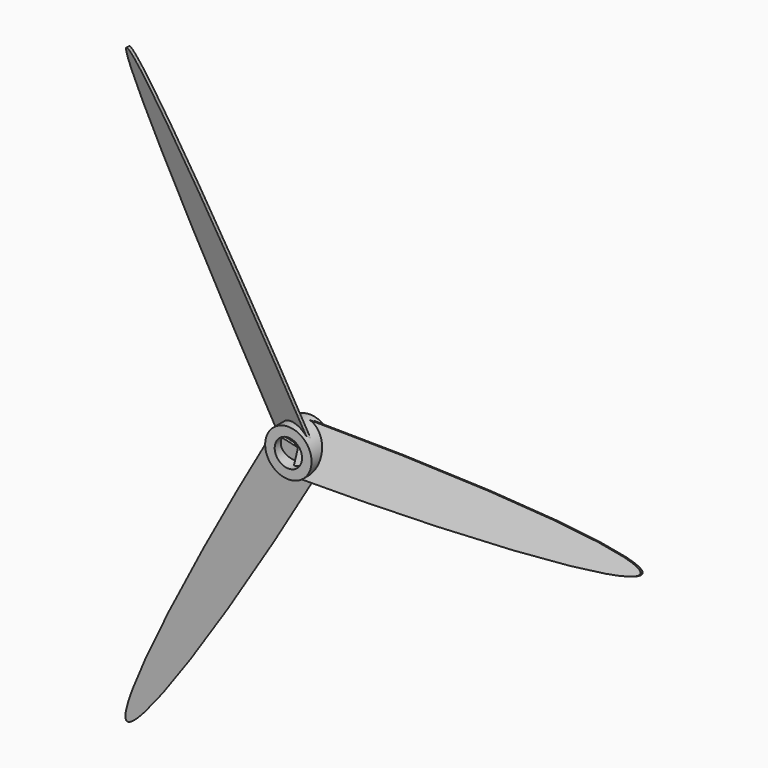
from build123d import *

# Parameters (mm, degrees)
F4_DEPTH = 0.5
F6_COUNT = 3
F0_R     = 8.63289
F0_R_2   = 5.093622
F7_DEPTH = 5


with BuildPart() as f4:
    # F3 (on face) → F4 (new body, symmetric)
    with BuildSketch(Plane(origin=(0, 0, 0), x_dir=(-1, 0, 0), z_dir=(0, 0.939693, -0.34202))):
        with BuildLine():
            add(Edge.make_bspline(
                [(0, 8.774566), (-127.471052, 8.774566), (-127.471052, 0)],
                knots=[4.712389, 4.712389, 4.712389, 6.283185, 6.283185, 6.283185], degree=2, weights=[1, 0.707107, 1]))
            add(Edge.make_bspline(
                [(-127.471052, 0), (-127.471052, -8.774566), (0, -8.774566)],
                knots=[0, 0, 0, 1.570796, 1.570796, 1.570796], degree=2, weights=[1, 0.707107, 1]))
            Line((0, -8.774566), (0, 8.774566))
        make_face()
    extrude(amount=F4_DEPTH, both=True)


with BuildPart() as f6_1:
    # F6: instance of F4
    add(f4.part.rotate(Axis((0, 0.736412, 0), (0, -1, 0)), 1 * 360 / F6_COUNT))


with BuildPart() as f6_2:
    # F6: instance of F4
    add(f4.part.rotate(Axis((0, 0.736412, 0), (0, -1, 0)), 2 * 360 / F6_COUNT))


with BuildPart() as f7:
    # F0 (on Front) → F7 (new body, symmetric)
    with BuildSketch(Plane.XZ):
        Circle(F0_R)
        Circle(F0_R_2, mode=Mode.SUBTRACT)
    extrude(amount=F7_DEPTH, both=True)


solid = Compound([f4.part, f6_1.part, f6_2.part, f7.part])
